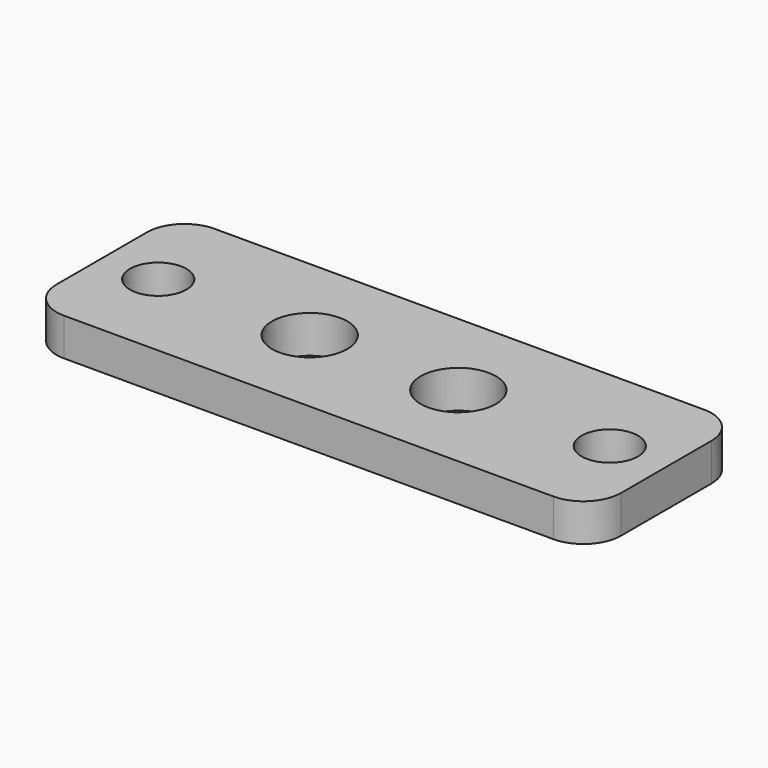
from build123d import *

# Parameters (mm, degrees)
F0_R     = 1.5
F0_R_2   = 2
F1_DEPTH = 2


with BuildPart() as f1:
    # F0 (on Top) → F1 (new body)
    with BuildSketch(Plane.XY):
        with BuildLine():
            Line((-13, -5), (13, -5))
            ThreePointArc((13, -5), (14.414214, -4.414214), (15, -3))
            Line((15, -3), (15, 3))
            ThreePointArc((15, 3), (14.414214, 4.414214), (13, 5))
            Line((13, 5), (-13, 5))
            ThreePointArc((-13, 5), (-14.414214, 4.414214), (-15, 3))
            Line((-15, 3), (-15, -3))
            ThreePointArc((-15, -3), (-14.414214, -4.414214), (-13, -5))
        make_face()
        with Locations((-12, 0)):
            Circle(F0_R, mode=Mode.SUBTRACT)
        with Locations((-3.95, 0)):
            Circle(F0_R_2, mode=Mode.SUBTRACT)
        with Locations((3.95, 0)):
            Circle(F0_R_2, mode=Mode.SUBTRACT)
        with Locations((12, 0)):
            Circle(F0_R, mode=Mode.SUBTRACT)
    extrude(amount=F1_DEPTH)


solid = f1.part
